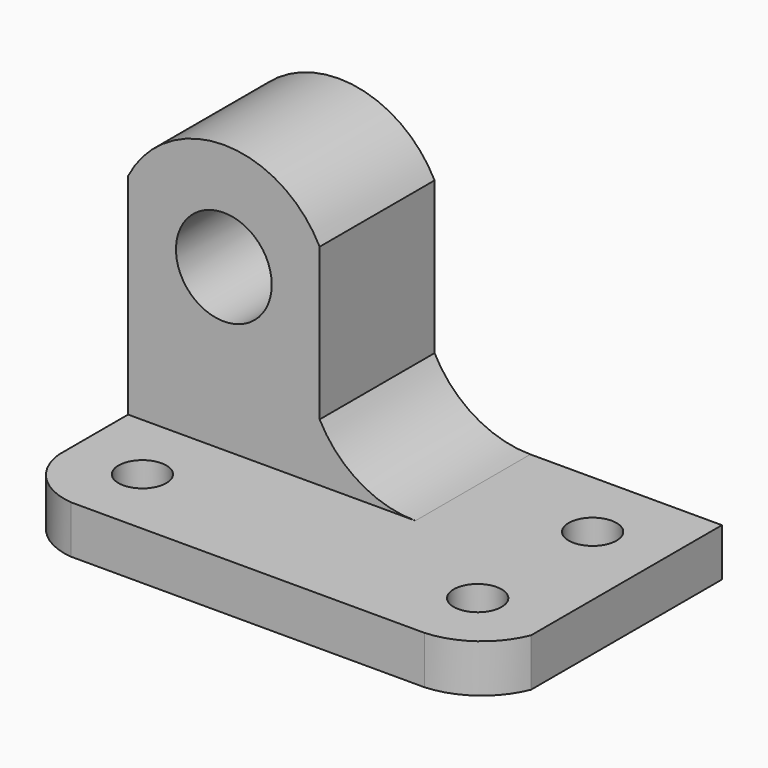
from build123d import *

# Parameters (mm, degrees)
F0_W      = 63.5
F0_H      = 44.45
F1_DEPTH  = 38.1
F2_W      = 25.4
F2_H      = 38.1
F3_DEPTH  = 38.1
F4_W      = 19.05
F4_H      = 38.1
F5_DEPTH  = 38.1
F6_R      = 3.175
F7_DEPTH  = 25.4
F9_DEPTH  = 25.4
F11_DEPTH = 25.4
F12_R     = 6.35
F13_DEPTH = 25.4


with BuildPart() as f1:
    # F0 (on Front) → F1 (new body)
    with BuildSketch(Plane.XZ):
        with Locations((31.75, 22.225)):
            Rectangle(F0_W, F0_H)
    extrude(amount=F1_DEPTH)

    # F2 (on face) → F3 (cut)
    with BuildSketch(Plane.XZ.offset(38.1)):
        with Locations((50.8, 25.4)):
            Rectangle(F2_W, F2_H)
    extrude(amount=-F3_DEPTH, mode=Mode.SUBTRACT)

    # F4 (on face) → F5 (cut)
    with BuildSketch(Plane.YZ.offset(38.1)):
        with Locations((-28.575, 25.4)):
            Rectangle(F4_W, F4_H)
    extrude(amount=-F5_DEPTH, mode=Mode.SUBTRACT)

    # F6 (on face) → F7 (cut)
    with BuildSketch(Plane.XY.offset(6.35)):
        with Locations((53.975, -9.525)):
            Circle(F6_R)
        with Locations((53.975, -28.575)):
            Circle(F6_R)
        with Locations((9.525, -28.575)):
            Circle(F6_R)
    extrude(amount=-F7_DEPTH, mode=Mode.SUBTRACT)

    # F8 (on face) → F9 (cut)
    with BuildSketch(Plane.XY.offset(6.35)):
        with BuildLine():
            ThreePointArc((7.6932702214, -38.1), (2.5225699869, -35.7128573059), (0, -30.6068577154))
            Line((0, -30.6068577154), (0, -38.1))
            Line((0, -38.1), (7.6932702214, -38.1))
        make_face()
        with BuildLine():
            ThreePointArc((63.5, -31.6278859973), (59.9629765941, -36.172141291), (54.536730051, -38.1))
            Line((54.536730051, -38.1), (63.5, -38.1))
            Line((63.5, -38.1), (63.5, -31.6278859973))
        make_face()
    extrude(amount=-F9_DEPTH, mode=Mode.SUBTRACT)

    # F10 (on face) → F11 (cut)
    with BuildSketch(Plane.XZ.offset(19.05)):
        with BuildLine():
            ThreePointArc((0, 34.2015661299), (12.7, 41.9675576974), (25.4, 34.2015661299))
            Line((25.4, 34.2015661299), (25.4, 14.0428527725))
            ThreePointArc((25.4, 14.0428527725), (30.6758841641, 8.4231867937), (38.1, 6.35))
            Line((38.1, 6.35), (38.1, 44.45))
            Line((38.1, 44.45), (0, 44.45))
            Line((0, 44.45), (0, 34.2015661299))
        make_face()
    extrude(amount=-F11_DEPTH, mode=Mode.SUBTRACT)

    # F12 (on face) → F13 (cut)
    with BuildSketch(Plane.XZ.offset(19.05)):
        with Locations((12.7, 27.7001828811)):
            Circle(F12_R)
    extrude(amount=-F13_DEPTH, mode=Mode.SUBTRACT)


solid = f1.part
